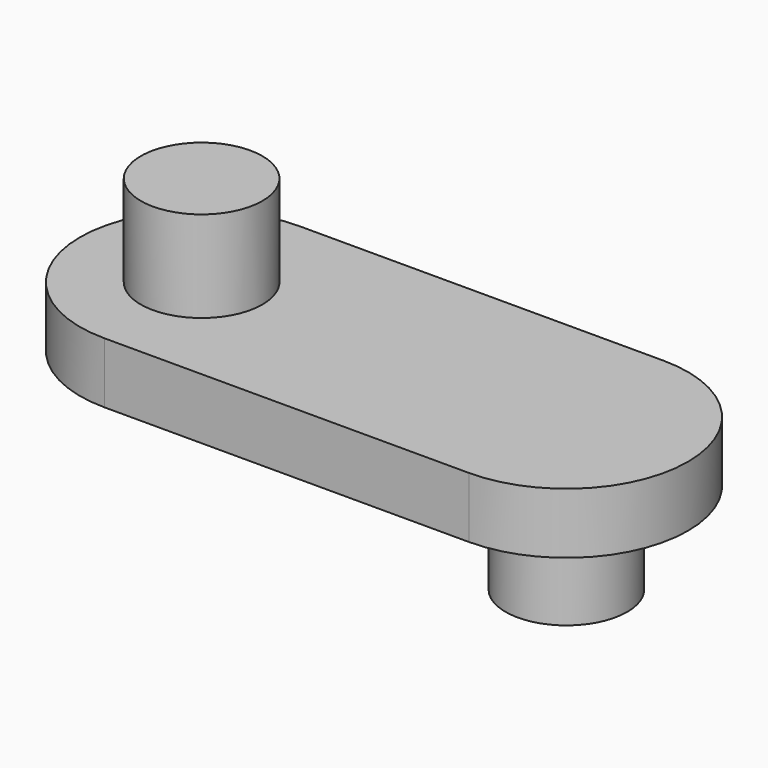
from build123d import *

# Parameters (mm, degrees)
F0_R     = 5
F1_DEPTH = 2.5
F2_DEPTH = 10
F3_DEPTH = 10


with BuildPart() as f1:
    # F0 (on Top) → F1 (new body, symmetric)
    with BuildSketch(Plane.XY):
        with BuildLine():
            Line((-15, -10), (15, -10))
            ThreePointArc((15, -10), (25, 0), (15, 10))
            Line((15, 10), (-15, 10))
            ThreePointArc((-15, 10), (-25, 0), (-15, -10))
        make_face()
        with Locations((-15, 0)):
            Circle(F0_R, mode=Mode.SUBTRACT)
        with Locations((15, 0)):
            Circle(F0_R, mode=Mode.SUBTRACT)
        with Locations((-15, 0)):
            Circle(F0_R)
        with Locations((15, 0)):
            Circle(F0_R)
    extrude(amount=F1_DEPTH, both=True)

    # F0 (on Top) → F2 (join)
    with BuildSketch(Plane.XY):
        with Locations((-15, 0)):
            Circle(F0_R)
    extrude(amount=F2_DEPTH)

    # F0 (on Top) → F3 (join)
    with BuildSketch(Plane.XY):
        with Locations((15, 0)):
            Circle(F0_R)
    extrude(amount=-F3_DEPTH)


solid = f1.part
